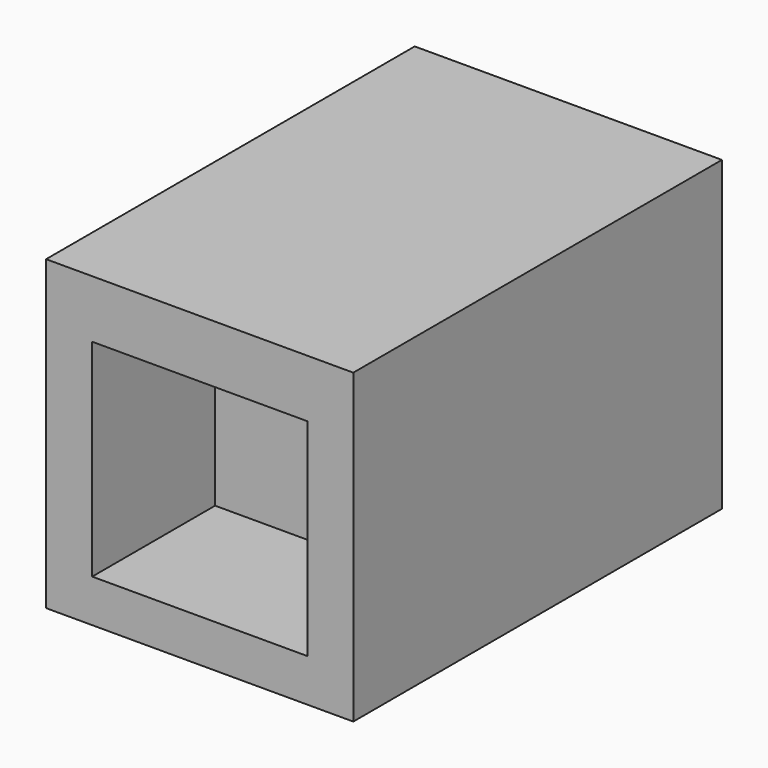
from build123d import *

# Parameters (mm, degrees)
F0_W      = 50.8
F0_H      = 50.8
F1_DEPTH  = 50.8
F1_FACE_W = 50.8
F1_FACE_H = 50.8
F2_DEPTH  = 25.4
F3_W      = 35.606458
F3_H      = 34.19029
F4_DEPTH  = 25.4


with BuildPart() as f1:
    # F0 (on Front) → F1 (new body)
    with BuildSketch(Plane.XZ):
        with Locations((-25.4, 25.4)):
            Rectangle(F0_W, F0_H)
    extrude(amount=F1_DEPTH)

    # F1_face (on face) → F2 (join)
    with BuildSketch(Plane(origin=(-25.4, -50.8, 25.4), x_dir=(1, 0, 0), z_dir=(0, -1, 0))):
        Rectangle(F1_FACE_W, F1_FACE_H)
    extrude(amount=F2_DEPTH)

    # F3 (on face) → F4 (cut)
    with BuildSketch(Plane.XZ.offset(76.2)):
        with Locations((-25.368032, 24.165593)):
            Rectangle(F3_W, F3_H)
    extrude(amount=-F4_DEPTH, mode=Mode.SUBTRACT)


solid = f1.part
